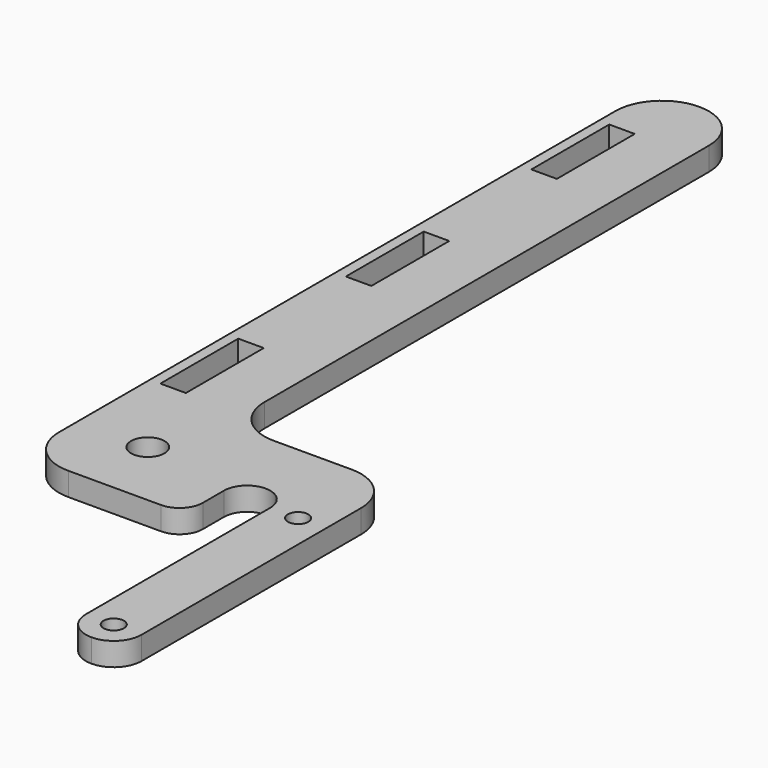
from build123d import *

# Parameters (mm, degrees)
F0_W     = 5.5
F0_H     = 21
F0_R     = 3.6
F0_R_2   = 2.2
F1_DEPTH = 5


with BuildPart() as f1:
    # F0 (on Top) → F1 (new body)
    with BuildSketch(Plane.XY):
        with BuildLine():
            ThreePointArc((10.08, 75), (7.151068, 82.071068), (0.08, 85))
            Line((0.08, 85), (-0.08, 85))
            ThreePointArc((-0.08, 85), (-7.151068, 82.071068), (-10.08, 75))
            Line((-10.08, 75), (-10.08, -75))
            ThreePointArc((-10.08, -75), (-7.151068, -82.071068), (-0.08, -85))
            Line((-0.08, -85), (10.08, -85))
            Line((10.08, -85), (19.920046, -85))
            ThreePointArc((19.920046, -85), (23.455545, -83.535569), (24.920046, -80.0001))
            Line((24.920046, -80.0001), (24.92016, -74.339954))
            ThreePointArc((24.92016, -74.339954), (24.92, -74.2999), (24.920161, -74.259846))
            ThreePointArc((24.920161, -74.259846), (29.940077, -69.30004), (34.92, -74.3))
            Line((34.92, -74.3), (34.92, -124))
            ThreePointArc((34.92, -124), (36.677359, -128.242641), (40.92, -130))
            ThreePointArc((40.92, -130), (45.162641, -128.242641), (46.92, -124))
            Line((46.92, -124), (46.92, -64.84))
            ThreePointArc((46.92, -64.84), (43.991068, -57.768932), (36.92, -54.84))
            Line((36.92, -54.84), (34.92, -54.84))
            Line((34.92, -54.84), (20.08, -54.84))
            ThreePointArc((20.08, -54.84), (13.008932, -51.911068), (10.08, -44.84))
            Line((10.08, -44.84), (10.08, 75))
        make_face()
        with Locations((-5.08, -40)):
            Rectangle(F0_W, F0_H, mode=Mode.SUBTRACT)
        with Locations((5, -69.92)):
            Circle(F0_R, mode=Mode.SUBTRACT)
        with Locations((40.92, -124)):
            Circle(F0_R_2, mode=Mode.SUBTRACT)
        with Locations((40.92, -74.3)):
            Circle(F0_R_2, mode=Mode.SUBTRACT)
        with Locations((-5.08, 10)):
            Rectangle(F0_W, F0_H, mode=Mode.SUBTRACT)
        with Locations((-5.08, 60)):
            Rectangle(F0_W, F0_H, mode=Mode.SUBTRACT)
    extrude(amount=F1_DEPTH)


solid = f1.part
